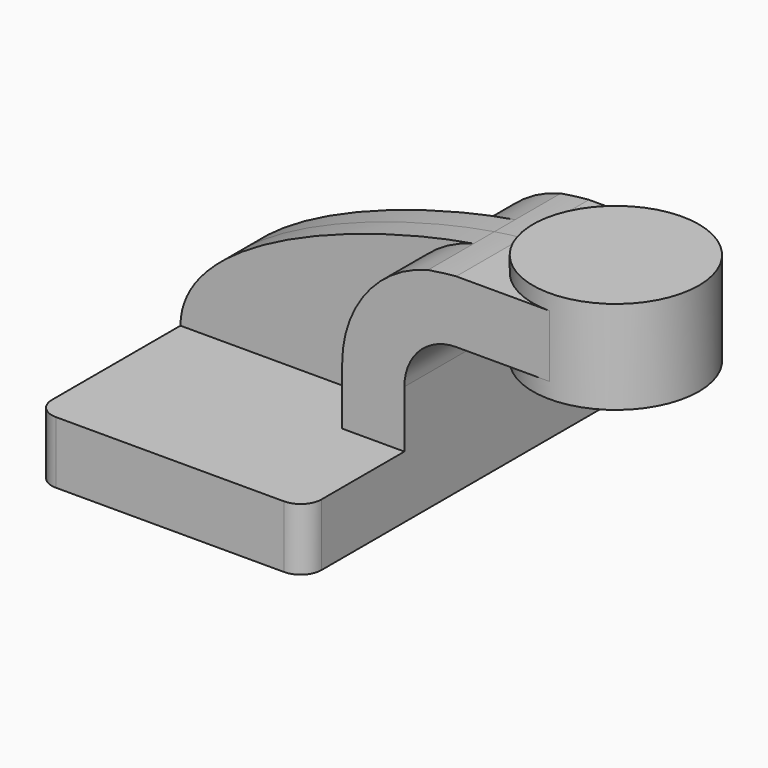
from build123d import *

# Parameters (mm, degrees)
F1_DEPTH = 63.5
F0_W     = 25.4
F0_H     = 19.05
F2_DEPTH = 25.4
F3_DEPTH = 7.9375
F4_R     = 6.35


with BuildPart() as f1:
    # F0 (on Front) → F1 (new body, symmetric)
    with BuildSketch(Plane.XZ):
        Polygon((22.225, 19.05), (-41.275, 19.05), (-41.275, 0), (41.275, 0), (41.275, 19.05), align=None)
    extrude(amount=F1_DEPTH, both=True)

    # F0 (on Front) → F2 (join, symmetric)
    with BuildSketch(Plane.XZ):
        with BuildLine():
            Line((22.225, 36.5252), (22.225, 19.05))
            Line((22.225, 19.05), (41.275, 19.05))
            Line((41.275, 19.05), (41.275, 36.5252))
            ThreePointArc((41.275, 36.5252), (45.9246798487, 47.7505201513), (57.15, 52.4002))
            Line((57.15, 52.4002), (60.325, 52.4002))
            Line((60.325, 52.4002), (60.325, 71.4502))
            Line((60.325, 71.4502), (57.15, 71.4502))
            add(Edge.make_bspline(
                [(48.5295077418, 70.3695900555), (51.7256176112, 70.8797706122), (54.6303264693, 71.2419617034), (57.15, 71.4502)],
                knots=[101.0999691386, 101.0999691386, 101.0999691386, 101.0999691386, 111.5045361635, 111.5045361635, 111.5045361635, 111.5045361635], degree=3))
            ThreePointArc((48.5295077418, 70.3695900555), (29.5744100959, 57.9574762777), (22.225, 36.5252))
        make_face()
        with Locations((73.025, 61.9252)):
            Rectangle(F0_W, F0_H)
    extrude(amount=F2_DEPTH, both=True)

    # F0 (on Front) → F3 (join, symmetric)
    with BuildSketch(Plane.XZ):
        with BuildLine():
            add(Edge.make_bspline(
                [(-41.275, 19.05), (-41.096400475, 46.4820152223), (17.4732794163, 65.4122248504), (48.5295077418, 70.3695900555)],
                knots=[0, 0, 0, 0, 101.0999691386, 101.0999691386, 101.0999691386, 101.0999691386], degree=3))
            Line((-41.275, 19.05), (22.225, 19.05))
            Line((22.225, 19.05), (22.225, 36.5252))
            ThreePointArc((22.225, 36.5252), (29.5744100959, 57.9574762777), (48.5295077418, 70.3695900555))
        make_face()
    extrude(amount=F3_DEPTH, both=True)

    # F4
    f4_edges = [f1.edges().sort_by_distance(p)[0] for p in [
        (41.275, -63.5, 9.525),
        (-41.275, -63.5, 9.525),
        (-41.275, 63.5, 9.525),
        (41.275, 63.5, 9.525),
    ]]
    fillet(f4_edges, radius=F4_R)

    # F0 (on Front) → F5 (revolve)
    with BuildSketch(Plane.XZ):
        Polygon((85.725, 76.2), (85.725, 71.4502), (85.725, 52.4002), (85.725, 47.625), (111.125, 47.625), (111.125, 76.2), align=None)
    revolve(axis=Axis((85.725, 0, 61.9125), (0, 0, -1)))


solid = f1.part
